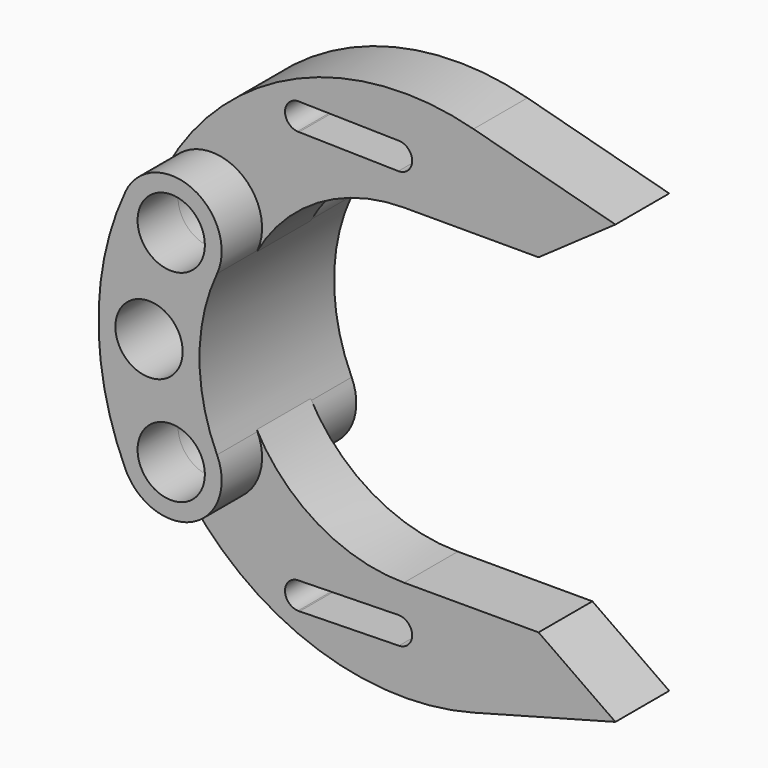
from build123d import *

# Parameters (mm, degrees)
F0_R     = 5
F2_DEPTH = 12.5
F1_R     = 5
F3_DEPTH = 5
F5_DEPTH = 17.501
F6_R     = 5
F7_DEPTH = 25.001


with BuildPart() as f2:
    # F0 (on Front) → F2 (new body, symmetric)
    with BuildSketch(Plane.XZ):
        with BuildLine():
            ThreePointArc((6.807243, -11.851755), (4.199317, 0), (6.807243, 11.851755))
            ThreePointArc((6.807243, 11.851755), (3.148245, 21.807243), (-6.807243, 18.148245))
            ThreePointArc((-6.807243, 18.148245), (-10.800683, 0), (-6.807243, -18.148245))
            ThreePointArc((-6.807243, -18.148245), (3.148245, -21.807243), (6.807243, -11.851755))
        make_face()
        with Locations((0, -15)):
            Circle(F0_R, mode=Mode.SUBTRACT)
        with Locations((0, 15)):
            Circle(F0_R, mode=Mode.SUBTRACT)
    extrude(amount=F2_DEPTH, both=True)

    # F6 (on face) → F7 (cut, through all)
    with BuildSketch(Plane.XZ.offset(12.5)):
        with Locations((-3.300683, 0)):
            Circle(F6_R)
    extrude(amount=-F7_DEPTH, mode=Mode.SUBTRACT)


with BuildPart() as f3:
    # F1 (on Front) → F3 (new body, symmetric)
    with BuildSketch(Plane.XZ):
        with BuildLine():
            ThreePointArc((6.595982, 11.430264), (7.270484, 13.158787), (7.5, 15))
            ThreePointArc((7.5, 15), (1.841213, 22.270484), (-6.595982, 18.569736))
            ThreePointArc((-6.595982, 18.569736), (-3.569736, 8.404018), (6.595982, 11.430264))
        make_face()
        with Locations((0, 15)):
            Circle(F1_R, mode=Mode.SUBTRACT)
        with BuildLine():
            ThreePointArc((-6.595982, 18.569736), (1.841213, 22.270484), (7.5, 15))
            ThreePointArc((7.5, 15), (7.270484, 13.158787), (6.595982, 11.430264))
            ThreePointArc((6.595982, 11.430264), (15.785677, 21.007618), (28.58259, 24.531142))
            Line((28.58259, 24.531142), (48.58259, 24.531142))
            Line((48.58259, 24.531142), (60, 32.531142))
            Line((60, 32.531142), (38.922994, 38.171485))
            ThreePointArc((38.922994, 38.171485), (12.762009, 36.269531), (-6.595982, 18.569736))
        make_face()
        with BuildLine():
            ThreePointArc((-6.595982, -18.569736), (12.762009, -36.269531), (38.922994, -38.171485))
            Line((38.922994, -38.171485), (60, -32.531142))
            Line((60, -32.531142), (48.58259, -24.531142))
            Line((48.58259, -24.531142), (28.58259, -24.531142))
            ThreePointArc((28.58259, -24.531142), (15.785677, -21.007618), (6.595982, -11.430264))
            ThreePointArc((6.595982, -11.430264), (7.270484, -13.158787), (7.5, -15))
            ThreePointArc((7.5, -15), (1.841213, -22.270484), (-6.595982, -18.569736))
        make_face()
        with BuildLine():
            ThreePointArc((6.595982, -11.430264), (-3.569736, -8.404018), (-6.595982, -18.569736))
            ThreePointArc((-6.595982, -18.569736), (1.841213, -22.270484), (7.5, -15))
            ThreePointArc((7.5, -15), (7.270484, -13.158787), (6.595982, -11.430264))
        make_face()
        with Locations((0, -15)):
            Circle(F1_R, mode=Mode.SUBTRACT)
    extrude(amount=F3_DEPTH, both=True)

    # F4 (on face) → F5 (cut, through all)
    with BuildSketch(Plane.XZ.offset(5)):
        with BuildLine():
            Line((13.072276, 33.329393), (12.836771, 33.334221))
            ThreePointArc((12.836771, 33.334221), (10.913968, 31.37423), (12.759835, 29.341617))
            Line((12.759835, 29.341617), (12.983721, 29.336927))
            ThreePointArc((12.983721, 29.336927), (14.35239, 29.946498), (14.913597, 31.335697))
            ThreePointArc((14.913597, 31.335697), (14.382842, 32.69265), (13.072276, 33.329393))
        make_face()
        with BuildLine():
            ThreePointArc((13.072276, 33.329393), (12.954595, 33.335277), (12.836771, 33.334221))
            Line((12.836771, 33.334221), (13.072276, 33.329393))
        make_face()
        with BuildLine():
            Line((12.983721, 29.336927), (12.759835, 29.341617))
            ThreePointArc((12.759835, 29.341617), (12.871712, 29.336136), (12.983721, 29.336927))
        make_face()
        with BuildLine():
            Line((27.836771, 33.026675), (13.072276, 33.329393))
            ThreePointArc((13.072276, 33.329393), (14.382842, 32.69265), (14.913597, 31.335697))
            ThreePointArc((14.913597, 31.335697), (14.35239, 29.946498), (12.983721, 29.336927))
            Line((12.983721, 29.336927), (27.753889, 29.027534))
            ThreePointArc((27.753889, 29.027534), (25.796203, 31.068537), (27.836771, 33.026675))
        make_face()
        with BuildLine():
            ThreePointArc((29.795774, 31.027096), (29.224409, 32.426739), (27.836771, 33.026675))
            ThreePointArc((27.836771, 33.026675), (25.796203, 31.068537), (27.753889, 29.027534))
            ThreePointArc((27.753889, 29.027534), (29.1951, 29.59815), (29.795774, 31.027096))
        make_face()
        with BuildLine():
            Line((12.983721, -29.336927), (12.759835, -29.341617))
            ThreePointArc((12.759835, -29.341617), (10.913968, -31.37423), (12.836771, -33.334221))
            Line((12.836771, -33.334221), (13.072276, -33.329393))
            ThreePointArc((13.072276, -33.329393), (14.382842, -32.69265), (14.913597, -31.335697))
            ThreePointArc((14.913597, -31.335697), (14.35239, -29.946498), (12.983721, -29.336927))
        make_face()
        with BuildLine():
            ThreePointArc((12.983721, -29.336927), (12.871712, -29.336136), (12.759835, -29.341617))
            Line((12.759835, -29.341617), (12.983721, -29.336927))
        make_face()
        with BuildLine():
            Line((13.072276, -33.329393), (12.836771, -33.334221))
            ThreePointArc((12.836771, -33.334221), (12.954595, -33.335277), (13.072276, -33.329393))
        make_face()
        with BuildLine():
            Line((27.753889, -29.027534), (12.983721, -29.336927))
            ThreePointArc((12.983721, -29.336927), (14.35239, -29.946498), (14.913597, -31.335697))
            ThreePointArc((14.913597, -31.335697), (14.382842, -32.69265), (13.072276, -33.329393))
            Line((13.072276, -33.329393), (27.836771, -33.026675))
            ThreePointArc((27.836771, -33.026675), (25.796203, -31.068537), (27.753889, -29.027534))
        make_face()
        with BuildLine():
            ThreePointArc((29.795774, -31.027096), (29.1951, -29.59815), (27.753889, -29.027534))
            ThreePointArc((27.753889, -29.027534), (25.796203, -31.068537), (27.836771, -33.026675))
            ThreePointArc((27.836771, -33.026675), (29.224409, -32.426739), (29.795774, -31.027096))
        make_face()
    extrude(amount=-F5_DEPTH, mode=Mode.SUBTRACT)


solid = Compound([f2.part, f3.part])
